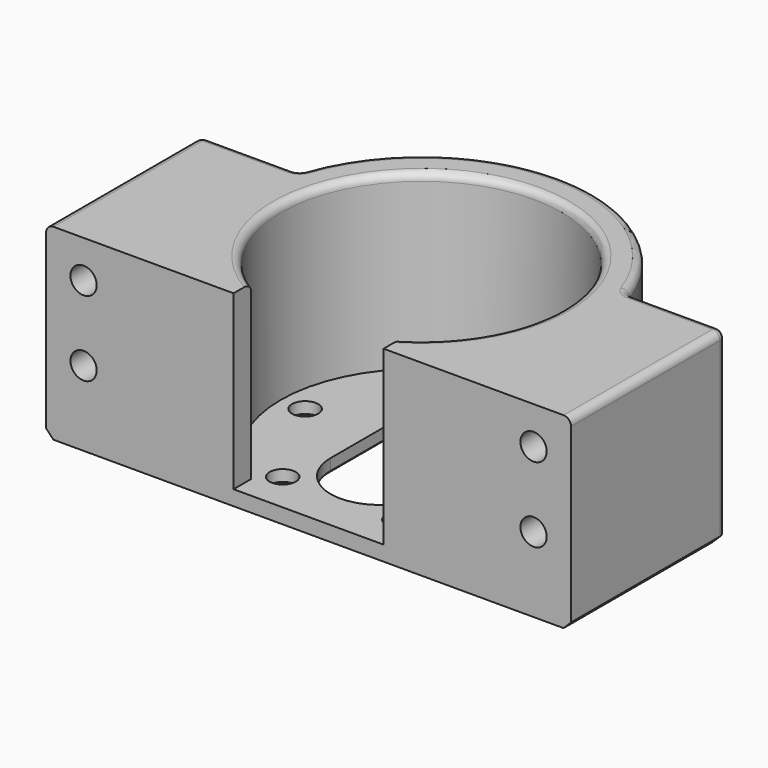
from build123d import *

# Parameters (mm, degrees)
BOX003_W               = 20
BOX003_H               = 4.2
BOX003_DEPTH           = 25
BOX002_W               = 100
BOX002_H               = 4.2
BOX002_DEPTH           = 25
CYLINDER002_R          = 1.75
CYLINDER002_DEPTH      = 60
CYLINDER002_ROLL_ANGLE = -90
ARRAY_X_COUNT          = 2
ARRAY_X_PITCH          = 60
ARRAY_Z_COUNT          = 2
ARRAY_Z_PITCH          = 10
CYLINDER003_R          = 1.75
CYLINDER003_DEPTH      = 10
ARRAY001_COUNT         = 6
CYLINDER005_R          = 6.5
CYLINDER005_DEPTH      = 10
CYLINDER004_R          = 6.5
CYLINDER004_DEPTH      = 10
BOX001_W               = 13
BOX001_H               = 14
BOX001_DEPTH           = 10
CYLINDER001_R          = 18.75
CYLINDER001_DEPTH      = 25
CYLINDER_R             = 23
CYLINDER_DEPTH         = 25
BOX_W                  = 70
BOX_H                  = 30
BOX_DEPTH              = 25
FILLET_R               = 1
CHAMFER_SIZE           = 1
CHAMFER001_SIZE        = 0.5


with BuildPart() as cubo003:
    # Box003 → Box003 (new body)
    with BuildSketch(Plane(origin=(-10, -19, 2), x_dir=(1, 0, 0), z_dir=(0, 0, 1))):
        with Locations((10, 2.1)):
            Rectangle(BOX003_W, BOX003_H)
    extrude(amount=BOX003_DEPTH)


with BuildPart() as fusion003:
    # Box002 → Box002 (new body)
    with BuildSketch(Plane(origin=(-50, -23, 0), x_dir=(1, 0, 0), z_dir=(0, 0, 1))):
        with Locations((50, 2.1)):
            Rectangle(BOX002_W, BOX002_H)
    extrude(amount=BOX002_DEPTH)

    # Fusion003: union Cubo003
    add(cubo003.part)


with BuildPart() as tornillos:
    # Cylinder002 → Cylinder002 (new body)
    with BuildSketch(Plane.XY):
        Circle(CYLINDER002_R)
    extrude(amount=CYLINDER002_DEPTH)


with BuildPart() as tornillos_1:
    # Cylinder002 roll: moved
    add(tornillos.part.rotate(Axis((0, 0, 0), (1, 0, 0)), CYLINDER002_ROLL_ANGLE))


with BuildPart() as tornillos_2:
    # Cylinder002 placement: moved
    add(tornillos_1.part.moved(Location((-30, -30, 10))))

    # Array X: tornillos ×2


with BuildPart() as tornillos_3:
    add(tornillos_2.part)
    with Locations(*[(i * ARRAY_X_PITCH, 0, 0) for i in range(1, ARRAY_X_COUNT)]):
        add(tornillos_2.part)

    # Array Z: tornillos ×2


with BuildPart() as tornillos_4:
    add(tornillos_3.part)
    with Locations(*[(0, 0, i * ARRAY_Z_PITCH) for i in range(1, ARRAY_Z_COUNT)]):
        add(tornillos_3.part)


with BuildPart() as array001:
    # Cylinder003 → Cylinder003 (new body)
    with BuildSketch(Plane(origin=(15.5, 0, 0), x_dir=(1, 0, 0), z_dir=(0, 0, 1))):
        Circle(CYLINDER003_R)
    extrude(amount=CYLINDER003_DEPTH)

    # Array001: Array001 ×6 about axis
    array001_axis = Axis((0, 0, 0), (0, 0, 1))


with BuildPart() as array001_1:
    add(array001.part)
    for i in range(1, ARRAY001_COUNT):
        add(array001.part.rotate(array001_axis, i * 360 / ARRAY001_COUNT))


with BuildPart() as cilindro005:
    # Cylinder005 → Cylinder005 (new body)
    with BuildSketch(Plane(origin=(0, 7, 0), x_dir=(1, 0, 0), z_dir=(0, 0, 1))):
        Circle(CYLINDER005_R)
    extrude(amount=CYLINDER005_DEPTH)


with BuildPart() as cilindro004:
    # Cylinder004 → Cylinder004 (new body)
    with BuildSketch(Plane(origin=(0, -7, 0), x_dir=(1, 0, 0), z_dir=(0, 0, 1))):
        Circle(CYLINDER004_R)
    extrude(amount=CYLINDER004_DEPTH)


with BuildPart() as fusion002:
    # Box001 → Box001 (new body)
    with BuildSketch(Plane(origin=(-6.5, -7, 0), x_dir=(1, 0, 0), z_dir=(0, 0, 1))):
        with Locations((6.5, 7)):
            Rectangle(BOX001_W, BOX001_H)
    extrude(amount=BOX001_DEPTH)

    # Fusion001: union Cilindro005, Cilindro004
    add(cilindro005.part)
    add(cilindro004.part)

    # Fusion002: union Array001
    add(array001_1.part)


with BuildPart() as cilindro001:
    # Cylinder001 → Cylinder001 (new body)
    with BuildSketch(Plane.XY.offset(2)):
        Circle(CYLINDER001_R)
    extrude(amount=CYLINDER001_DEPTH)


with BuildPart() as cilindro:
    # Cylinder → Cylinder (new body)
    with BuildSketch(Plane.XY):
        Circle(CYLINDER_R)
    extrude(amount=CYLINDER_DEPTH)


with BuildPart() as portamotor:
    # Box → Box (new body)
    with BuildSketch(Plane(origin=(-35, -23, 0), x_dir=(1, 0, 0), z_dir=(0, 0, 1))):
        with Locations((35, 15)):
            Rectangle(BOX_W, BOX_H)
    extrude(amount=BOX_DEPTH)

    # Fusion: union Cilindro
    add(cilindro.part)

    # Cut: cut Cilindro001
    add(cilindro001.part, mode=Mode.SUBTRACT)

    # Fillet
    fillet_edges = [portamotor.edges().sort_by_distance(p)[0] for p in [
        (35, -23, 12.5),
        (35, -8, 25),
        (35, 7, 12.5),
        (-35, -23, 12.5),
        (-28.454451, 7, 25),
        (-35, -8, 25),
        (0, 23, 25),
        (28.454451, 7, 25),
        (-18.75, 0, 25),
        (21.908902, 7, 12.5),
        (-35, 7, 12.5),
        (-21.908902, 7, 12.5),
    ]]
    fillet(fillet_edges, radius=FILLET_R)

    # Chamfer
    chamfer_edges = [portamotor.edges().sort_by_distance(p)[0] for p in [
        (35, -8, 0),
        (-28.313708, 7, 0),
        (-34.707107, 6.707107, 0),
        (-22.050067, 7.183503, 0),
        (-35, -8, 0),
        (0, 23, 0),
        (-34.707107, -22.707107, 0),
        (22.050067, 7.183503, 0),
        (0, -23, 0),
        (28.313708, 7, 0),
        (34.707107, -22.707107, 0),
        (34.707107, 6.707107, 0),
    ]]
    chamfer(chamfer_edges, length=CHAMFER_SIZE)

    # Cut001: cut Fusion002
    add(fusion002.part, mode=Mode.SUBTRACT)

    # Cut002: cut tornillos
    add(tornillos_4.part, mode=Mode.SUBTRACT)

    # Chamfer001
    chamfer001_edges = [portamotor.edges().sort_by_distance(p)[0] for p in [
        (13.75, 0, 0),
        (0, 13.5, 0),
        (6.5, 0, 0),
        (0, -13.5, 0),
        (-6.5, 0, 0),
        (-6.875, -11.907849, 0),
        (6.875, 11.907849, 0),
        (-6.875, 11.907849, 0),
        (6.875, -11.907849, 0),
        (-13.75, 0, 0),
    ]]
    chamfer(chamfer001_edges, length=CHAMFER001_SIZE)

    # Cut003: cut Fusion003
    add(fusion003.part, mode=Mode.SUBTRACT)


solid = portamotor.part
